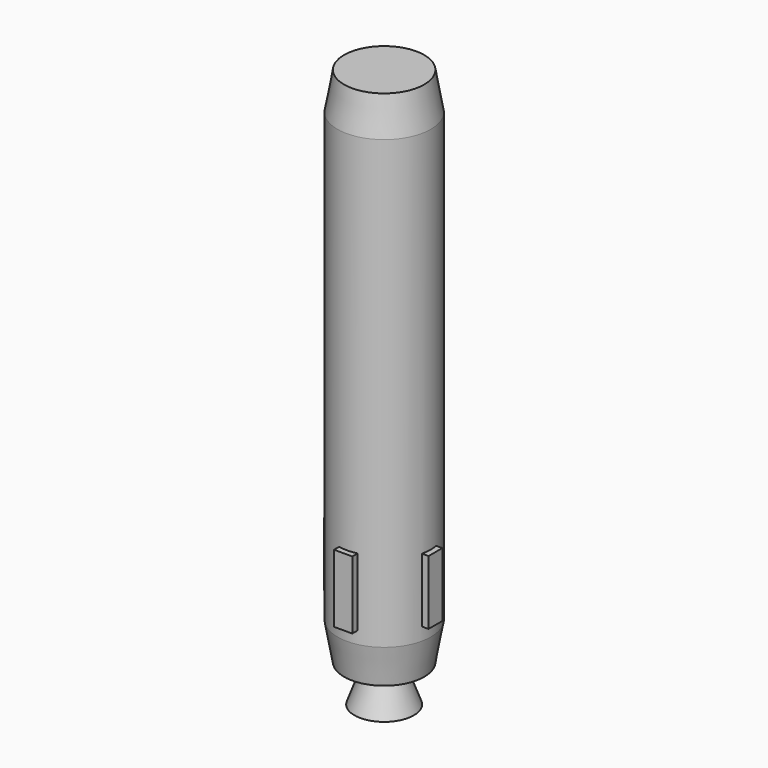
from build123d import *

# Parameters (mm, degrees)
F0_R           = 6.260280421
F1_DEPTH       = 10
F1_DEPTH_BACK  = 50
F1_FACE_R      = 6.260280421
F2_DEPTH       = 5
F2_TAPER       = 10
F1_FACE1_R     = 6.260280421
F3_DEPTH       = 5
F3_TAPER       = 10
F4_R           = 2.1661571195
F5_DEPTH       = 5
F5_TAPER       = -20
F6_R           = 3.8309083686
F7_DEPTH       = 5
F7_TAPER       = 20
F8_W           = 2.4537248537
F8_H           = 9.1121047735
F9_DEPTH       = 7
F9_DEPTH_BACK  = 7
F10_W          = 2.3227367783
F10_H          = 8.6134821177
F11_DEPTH      = 7
F11_DEPTH_BACK = 7


with BuildPart() as f1:
    # F0 (on Top) → F1 (new body, two sides)
    with BuildSketch(Plane.XY) as f1_sk:
        Circle(F0_R)
    extrude(amount=F1_DEPTH)
    extrude(f1_sk.sketch, amount=-F1_DEPTH_BACK)

    # F1_face (on face) → F2 (join)
    with BuildSketch(Plane.XY.offset(10)):
        Circle(F1_FACE_R)
    extrude(amount=F2_DEPTH, taper=F2_TAPER)

    # F1_face1 (on face) → F3 (join)
    with BuildSketch(Plane(origin=(0, 0, -50), x_dir=(1, 0, 0), z_dir=(0, 0, -1))):
        Circle(F1_FACE1_R)
    extrude(amount=F3_DEPTH, taper=F3_TAPER)

    # F4 (on face) → F5 (join)
    with BuildSketch(Plane(origin=(0, 0, -55), x_dir=(1, 0, 0), z_dir=(0, 0, -1))):
        Circle(F4_R)
    extrude(amount=F5_DEPTH, taper=F5_TAPER)

    # F6 (on face) → F7 (cut)
    with BuildSketch(Plane(origin=(0, 0, -60), x_dir=(1, 0, 0), z_dir=(0, 0, -1))):
        Circle(F6_R)
    extrude(amount=-F7_DEPTH, taper=F7_TAPER, mode=Mode.SUBTRACT)

    # F8 (on Front) → F9 (join, two sides)
    with BuildSketch(Plane.XZ) as f9_sk:
        with Locations((0.0925256172, -43.8020937145)):
            Rectangle(F8_W, F8_H)
    extrude(amount=F9_DEPTH)
    extrude(f9_sk.sketch, amount=-F9_DEPTH_BACK)

    # F10 (on Right) → F11 (join, two sides)
    with BuildSketch(Plane.YZ) as f11_sk:
        with Locations((-0.1453745062, -43.9728200436)):
            Rectangle(F10_W, F10_H)
    extrude(amount=F11_DEPTH)
    extrude(f11_sk.sketch, amount=-F11_DEPTH_BACK)


solid = f1.part
